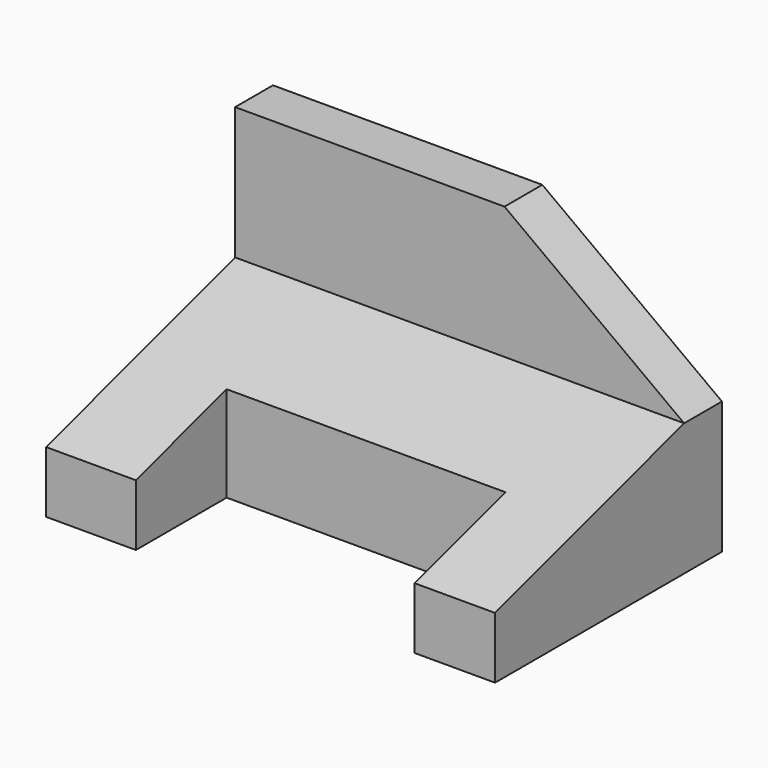
from build123d import *

# Parameters (mm, degrees)
F1_DEPTH = 47.5
F2_W     = 59
F2_H     = 24
F3_DEPTH = 25
F5_DEPTH = 10


with BuildPart() as f1:
    # F0 (on Right) → F1 (new body, symmetric)
    with BuildSketch(Plane.YZ):
        Polygon((-30, 13), (-30, 0), (30, 0), (30, 56), (20, 56), (20, 28), align=None)
    extrude(amount=F1_DEPTH, both=True)

    # F2 (on Top) → F3 (cut)
    with BuildSketch(Plane.XY):
        with Locations((1, -18)):
            Rectangle(F2_W, F2_H)
    extrude(amount=F3_DEPTH, mode=Mode.SUBTRACT)

    # F4 (on face) → F5 (cut, through all)
    with BuildSketch(Plane.XZ.offset(-20)):
        Polygon((47.5, 56), (9.5, 56), (47.5, 28), align=None)
    extrude(amount=-F5_DEPTH, mode=Mode.SUBTRACT)


solid = f1.part
